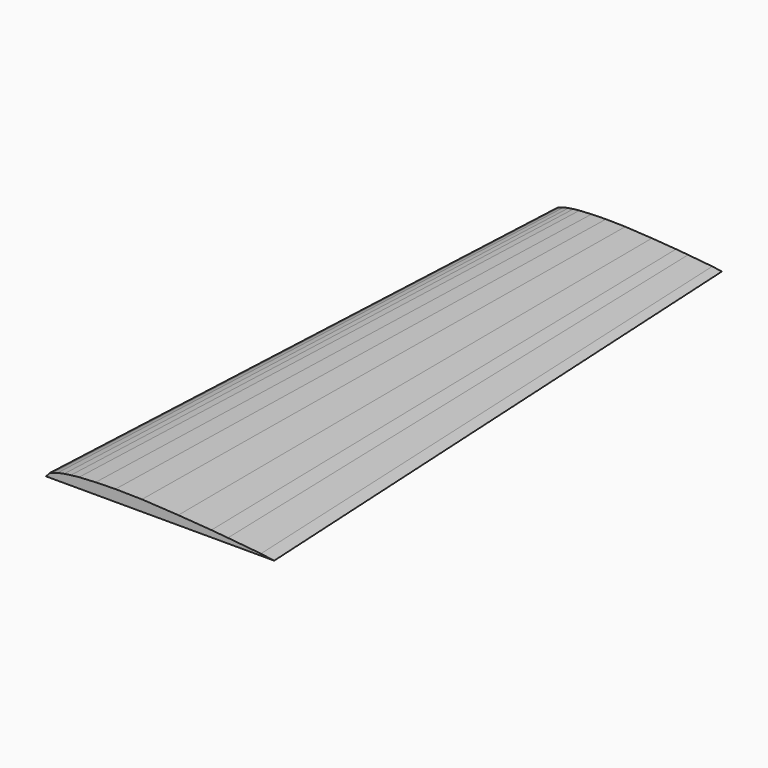
from build123d import *


with BuildPart() as f3:
    # F1 (on Front) → F3 section 0
    with BuildSketch(Plane.XZ):
        Polygon((-125.047788, 0), (-38.128988, 0), (-43.170278, 0.69535), (-55.764813, 1.912214), (-62.066426, 2.477186), (-74.66096, 3.389833), (-88.516686, 4.172102), (-98.598397, 4.34594), (-106.160333, 4.172102), (-112.453254, 3.824427), (-115.608406, 3.476752), (-118.12036, 3.129077), (-120.641005, 2.607564), (-122.535835, 1.999132), (-123.796157, 1.47762), align=None)
    # F2 (on offset) → F3 section 1
    with BuildSketch(Plane.XZ.offset(-228.6)):
        Polygon((-113.007563, 1.151306), (-113.921963, 0.071806), (-50.421963, 0.071806), (-54.104963, 0.579806), (-63.306113, 1.468806), (-67.909863, 1.881556), (-77.111013, 2.548306), (-87.233548, 3.119806), (-94.598913, 3.246806), (-100.123413, 3.119806), (-104.720813, 2.865806), (-107.025863, 2.611806), (-108.861013, 2.357806), (-110.702513, 1.976806), (-112.086813, 1.532306), align=None)
    loft()


solid = f3.part
